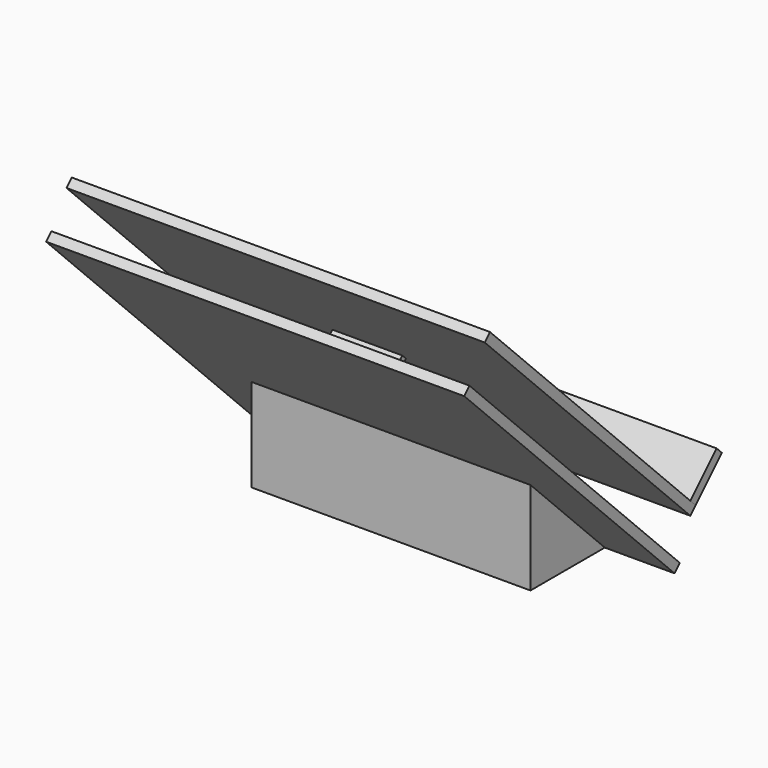
from build123d import *

# Parameters (mm, degrees)
F1_DEPTH = 76.2
F3_DEPTH = 114.3
F5_DEPTH = 19.05
F7_DEPTH = 114.3
F9_DEPTH = 114.3


with BuildPart() as f1:
    # F0 (on Right) → F1 (new body, symmetric)
    with BuildSketch(Plane.YZ):
        Polygon((0, 0), (50.8, 0), (0, 50.8), align=None)
    extrude(amount=F1_DEPTH, both=True)

    # F2 (on Right) → F3 (join, symmetric)
    with BuildSketch(Plane.YZ):
        Polygon((-92.8840979371, 143.6840979371), (50.8, 0), (54.3921024484, 3.5921024484), (-89.2919954887, 147.2762003855), align=None)
    extrude(amount=F3_DEPTH, both=True)

    # F4 (on Right) → F5 (join, symmetric)
    with BuildSketch(Plane.YZ):
        Polygon((-19.0148921431, 93.1635580579), (-13.6267384705, 98.5517117306), (-16.2071399733, 101.1321132333), (-24.2893704822, 93.0498827244), (-3.2090356941, 71.9695479362), (-8.5971893667, 66.5813942636), (-6.0167878639, 64.0009927608), (2.065442645, 72.0832232698), align=None)
    extrude(amount=F5_DEPTH, both=True)

    # F6 (on Right) → F7 (join, symmetric)
    with BuildSketch(Plane.YZ):
        Polygon((-75.328073948, 167.4372521049), (-78.9201763964, 163.8451496565), (61.6444455203, 23.2805277398), (65.2365479687, 26.8726301882), align=None)
    extrude(amount=F7_DEPTH, both=True)


with BuildPart() as f9:
    # F8 (on Right) → F9 (new body, symmetric)
    with BuildSketch(Plane.YZ):
        Polygon((79.6049681903, 48.4252379269), (61.6444472583, 30.4647343746), (65.2365479687, 26.8726301882), (83.1970689007, 44.8331337405), align=None)
    extrude(amount=F9_DEPTH, both=True)


solid = Compound([f1.part, f9.part])
